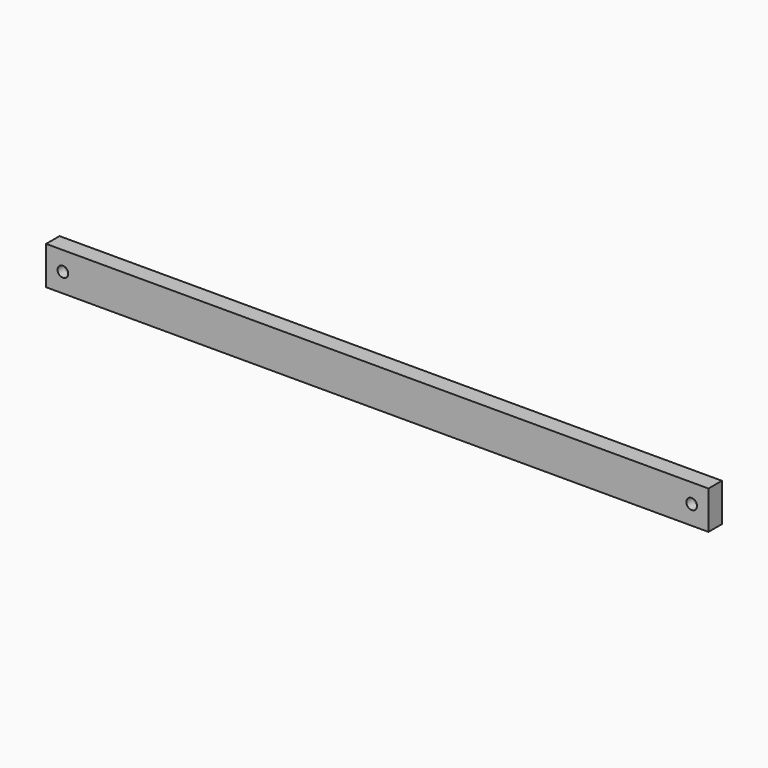
from build123d import *

# Parameters (mm, degrees)
F0_W     = 330.2
F0_H     = 19.05
F1_DEPTH = 4.191
F2_D     = 5.3086
F2_DEPTH = 4.192
F3_D     = 5.3086


with BuildPart() as f1:
    # F0 (on Front) → F1 (new body, symmetric)
    with BuildSketch(Plane.XZ):
        Rectangle(F0_W, F0_H)
    extrude(amount=F1_DEPTH, both=True)

    # F2 (through all, one way)
    with BuildSketch(Plane.XZ):
        with Locations((-156.718, 0), (156.718, 0)):
            Circle(F2_D / 2)
    extrude(amount=-F2_DEPTH, mode=Mode.SUBTRACT)

    # F3 (through all)
    with Locations(Plane(origin=(0, 0, 0), x_dir=(1, 0, 0), z_dir=(0, 1, 0))):
        with Locations((-156.718, 0), (156.718, 0)):
            Hole(F3_D / 2)


solid = f1.part
